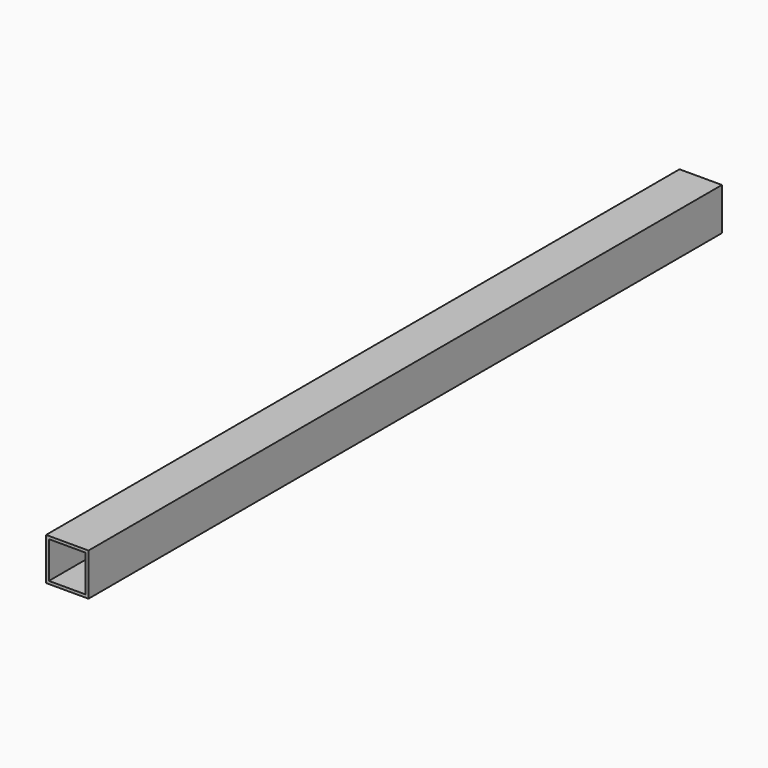
from build123d import *

# Parameters (mm, degrees)
SKETCH001_W   = 30
SKETCH001_H   = 30
SKETCH001_W_2 = 26
SKETCH001_H_2 = 26
PAD001_DEPTH  = 560


with BuildPart() as part:
    # Sketch001 → Pad001 (new body)
    with BuildSketch(Plane.XZ):
        with Locations((15, -15)):
            Rectangle(SKETCH001_W, SKETCH001_H)
        with Locations((15, -15)):
            Rectangle(SKETCH001_W_2, SKETCH001_H_2, mode=Mode.SUBTRACT)
    extrude(amount=PAD001_DEPTH)


with BuildPart() as part_1:
    # Body001 placement: moved
    add(part.part.moved(Location((-240, 390, 0))))


solid = part_1.part
